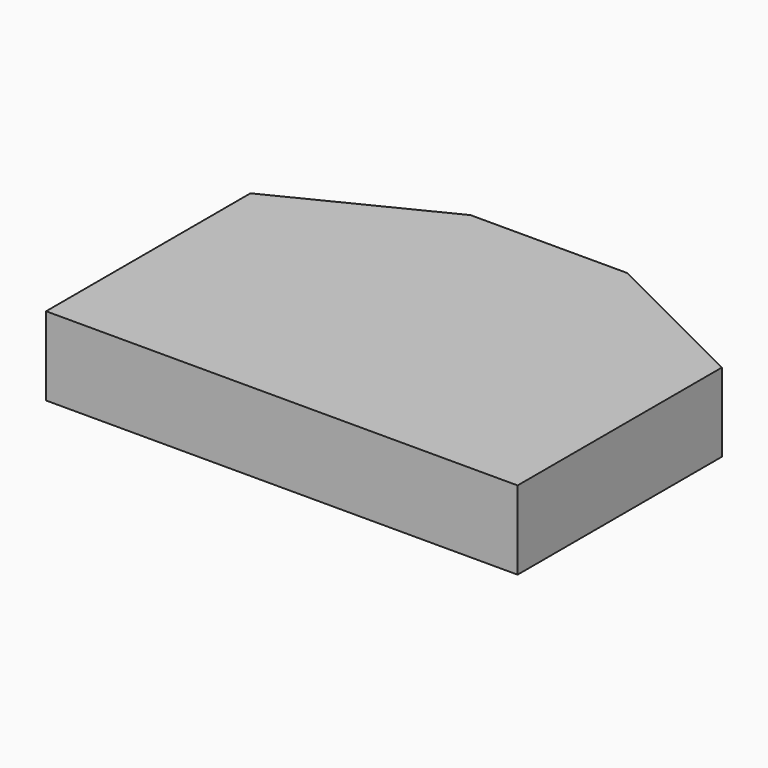
from build123d import *

# Parameters (mm, degrees)
F0_W     = 152.4
F0_H     = 107.95
F1_DEPTH = 25.4
F2_SIZE2 = 50.8
F2_SIZE  = 25.4


with BuildPart() as f1:
    # F0 (on Top) → F1 (new body)
    with BuildSketch(Plane.XY):
        Rectangle(F0_W, F0_H)
    extrude(amount=F1_DEPTH)

    # F2
    f2_edges = [f1.edges().sort_by_distance(p)[0] for p in [
        (-76.2, 53.975, 12.7),
        (76.2, 53.975, 12.7),
    ]]
    chamfer(f2_edges, length=F2_SIZE, length2=F2_SIZE2)


solid = f1.part
